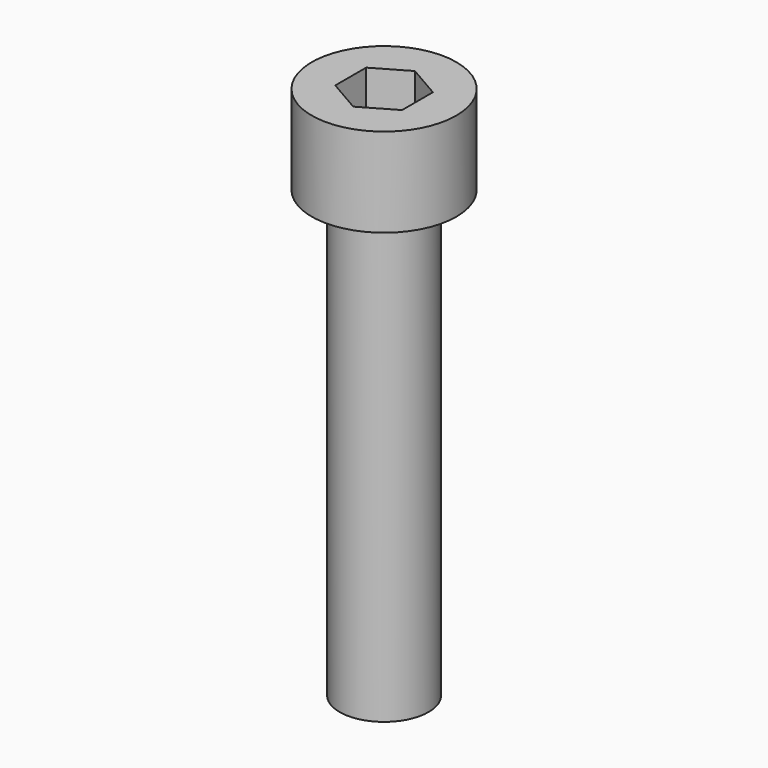
from build123d import *

# Parameters (mm, degrees)
F0_R     = 6.5
F1_DEPTH = 8
F3_DEPTH = 4
F4_R     = 4
F5_DEPTH = 40


with BuildPart() as f1:
    # F0 (on Top) → F1 (new body)
    with BuildSketch(Plane.XY):
        Circle(F0_R)
    extrude(amount=F1_DEPTH)

    # F2 (on face) → F3 (cut)
    with BuildSketch(Plane.XY.offset(8)):
        Polygon((3, 1.732051), (0, 3.464102), (-3, 1.732051), (-3, -1.732051), (0, -3.464102), (3, -1.732051), align=None)
    extrude(amount=-F3_DEPTH, mode=Mode.SUBTRACT)

    # F4 (on face) → F5 (join)
    with BuildSketch(Plane(origin=(0, 0, 0), x_dir=(1, 0, 0), z_dir=(0, 0, -1))):
        Circle(F4_R)
    extrude(amount=F5_DEPTH)


solid = f1.part
